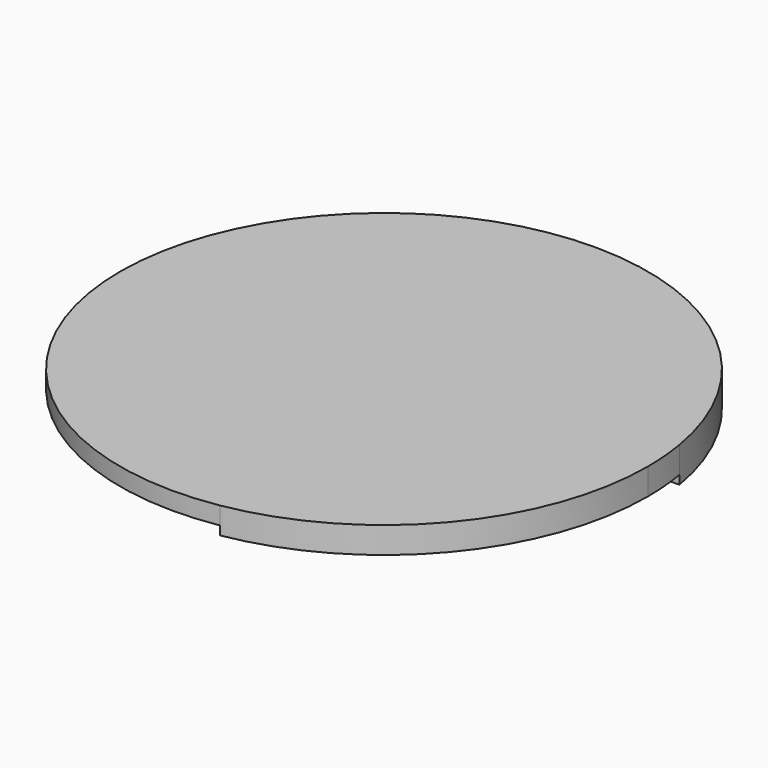
from build123d import *

# Parameters (mm, degrees)
F1_DEPTH = 3
F2_DEPTH = 2.5
F3_DEPTH = 2
F4_DEPTH = 1.5
F5_DEPTH = 1


with BuildPart() as f1:
    # F0 (on Top) → F1 (new body)
    with BuildSketch(Plane.XY):
        with BuildLine():
            ThreePointArc((0, 2.5), (-1.767766953, 1.767766953), (-2.5, 0))
            ThreePointArc((-2.5, 0), (-1.767766953, -1.767766953), (0, -2.5))
            ThreePointArc((0, -2.5), (1.767766953, -1.767766953), (2.5, 0))
            ThreePointArc((2.5, 0), (1.767766953, 1.767766953), (0, 2.5))
        make_face()
        with BuildLine():
            Line((-2.5, 0), (-2.5, 14.7901994577))
            ThreePointArc((-2.5, 14.7901994577), (-12.2260172846, 8.6904833787), (-14.7901994577, -2.5))
            Line((-14.7901994577, -2.5), (-3.8416876048, -2.5))
            ThreePointArc((-3.8416876048, -2.5), (-2.8566179631, -1.4186371655), (-2.5, 0))
        make_face()
        with BuildLine():
            Line((3.8416876048, 2.5), (14.7901994577, 2.5))
            ThreePointArc((14.7901994577, 2.5), (8.6904833787, 12.2260172846), (-2.5, 14.7901994577))
            Line((-2.5, 14.7901994577), (-2.5, 0))
            ThreePointArc((-2.5, 0), (-1.767766953, 1.767766953), (0, 2.5))
            Line((0, 2.5), (3.8416876048, 2.5))
        make_face()
        with BuildLine():
            ThreePointArc((2.5, 0), (2.8566179631, 1.4186371655), (3.8416876048, 2.5))
            Line((3.8416876048, 2.5), (0, 2.5))
            ThreePointArc((0, 2.5), (1.767766953, 1.767766953), (2.5, 0))
        make_face()
        with BuildLine():
            ThreePointArc((2.5, -14.7901994577), (11.4564392374, -9.6824583655), (15, 0))
            ThreePointArc((15, 0), (14.9474578418, 1.2543939042), (14.7901994577, 2.5))
            Line((14.7901994577, 2.5), (3.8416876048, 2.5))
            ThreePointArc((3.8416876048, 2.5), (2.8566179631, 1.4186371655), (2.5, 0))
            Line((2.5, 0), (2.5, -3.8416876048))
            Line((2.5, -3.8416876048), (2.5, -14.7901994577))
        make_face()
        with BuildLine():
            ThreePointArc((0, -2.5), (1.4186371655, -2.8566179631), (2.5, -3.8416876048))
            Line((2.5, -3.8416876048), (2.5, 0))
            ThreePointArc((2.5, 0), (1.767766953, -1.767766953), (0, -2.5))
        make_face()
        with BuildLine():
            ThreePointArc((-14.7901994577, -2.5), (-8.6904833787, -12.2260172846), (2.5, -14.7901994577))
            Line((2.5, -14.7901994577), (2.5, -3.8416876048))
            ThreePointArc((2.5, -3.8416876048), (1.4186371655, -2.8566179631), (0, -2.5))
            Line((0, -2.5), (-3.8416876048, -2.5))
            Line((-3.8416876048, -2.5), (-14.7901994577, -2.5))
        make_face()
        with BuildLine():
            ThreePointArc((2.5, -14.7901994577), (11.4564392374, -9.6824583655), (15, 0))
            ThreePointArc((15, 0), (14.9474578418, 1.2543939042), (14.7901994577, 2.5))
            Line((14.7901994577, 2.5), (3.8416876048, 2.5))
            ThreePointArc((3.8416876048, 2.5), (2.8566179631, 1.4186371655), (2.5, 0))
            Line((2.5, 0), (2.5, -3.8416876048))
            Line((2.5, -3.8416876048), (2.5, -14.7901994577))
        make_face()
        with BuildLine():
            ThreePointArc((-14.7901994577, -2.5), (-8.6904833787, -12.2260172846), (2.5, -14.7901994577))
            Line((2.5, -14.7901994577), (2.5, -3.8416876048))
            ThreePointArc((2.5, -3.8416876048), (1.4186371655, -2.8566179631), (0, -2.5))
            Line((0, -2.5), (-3.8416876048, -2.5))
            Line((-3.8416876048, -2.5), (-14.7901994577, -2.5))
        make_face()
        with BuildLine():
            ThreePointArc((0, -2.5), (-1.767766953, -1.767766953), (-2.5, 0))
            ThreePointArc((-2.5, 0), (-2.8566179631, -1.4186371655), (-3.8416876048, -2.5))
            Line((-3.8416876048, -2.5), (0, -2.5))
        make_face()
    extrude(amount=F1_DEPTH)

    # F0 (on Top) → F2 (cut)
    with BuildSketch(Plane.XY):
        with BuildLine():
            Line((-2.5, 0), (-2.5, 14.7901994577))
            ThreePointArc((-2.5, 14.7901994577), (-12.2260172846, 8.6904833787), (-14.7901994577, -2.5))
            Line((-14.7901994577, -2.5), (-3.8416876048, -2.5))
            ThreePointArc((-3.8416876048, -2.5), (-2.8566179631, -1.4186371655), (-2.5, 0))
        make_face()
    extrude(amount=F2_DEPTH, mode=Mode.SUBTRACT)

    # F0 (on Top) → F3 (cut)
    with BuildSketch(Plane.XY):
        with BuildLine():
            ThreePointArc((-14.7901994577, -2.5), (-8.6904833787, -12.2260172846), (2.5, -14.7901994577))
            Line((2.5, -14.7901994577), (2.5, -3.8416876048))
            ThreePointArc((2.5, -3.8416876048), (1.4186371655, -2.8566179631), (0, -2.5))
            Line((0, -2.5), (-3.8416876048, -2.5))
            Line((-3.8416876048, -2.5), (-14.7901994577, -2.5))
        make_face()
        with BuildLine():
            ThreePointArc((0, -2.5), (-1.767766953, -1.767766953), (-2.5, 0))
            ThreePointArc((-2.5, 0), (-2.8566179631, -1.4186371655), (-3.8416876048, -2.5))
            Line((-3.8416876048, -2.5), (0, -2.5))
        make_face()
    extrude(amount=F3_DEPTH, mode=Mode.SUBTRACT)

    # F0 (on Top) → F4 (cut)
    with BuildSketch(Plane.XY):
        with BuildLine():
            ThreePointArc((2.5, -14.7901994577), (11.4564392374, -9.6824583655), (15, 0))
            ThreePointArc((15, 0), (14.9474578418, 1.2543939042), (14.7901994577, 2.5))
            Line((14.7901994577, 2.5), (3.8416876048, 2.5))
            ThreePointArc((3.8416876048, 2.5), (2.8566179631, 1.4186371655), (2.5, 0))
            Line((2.5, 0), (2.5, -3.8416876048))
            Line((2.5, -3.8416876048), (2.5, -14.7901994577))
        make_face()
        with BuildLine():
            ThreePointArc((0, -2.5), (1.4186371655, -2.8566179631), (2.5, -3.8416876048))
            Line((2.5, -3.8416876048), (2.5, 0))
            ThreePointArc((2.5, 0), (1.767766953, -1.767766953), (0, -2.5))
        make_face()
    extrude(amount=F4_DEPTH, mode=Mode.SUBTRACT)

    # F0 (on Top) → F5 (cut)
    with BuildSketch(Plane.XY):
        with BuildLine():
            Line((3.8416876048, 2.5), (14.7901994577, 2.5))
            ThreePointArc((14.7901994577, 2.5), (8.6904833787, 12.2260172846), (-2.5, 14.7901994577))
            Line((-2.5, 14.7901994577), (-2.5, 0))
            ThreePointArc((-2.5, 0), (-1.767766953, 1.767766953), (0, 2.5))
            Line((0, 2.5), (3.8416876048, 2.5))
        make_face()
        with BuildLine():
            ThreePointArc((2.5, 0), (2.8566179631, 1.4186371655), (3.8416876048, 2.5))
            Line((3.8416876048, 2.5), (0, 2.5))
            ThreePointArc((0, 2.5), (1.767766953, 1.767766953), (2.5, 0))
        make_face()
    extrude(amount=F5_DEPTH, mode=Mode.SUBTRACT)


solid = f1.part
